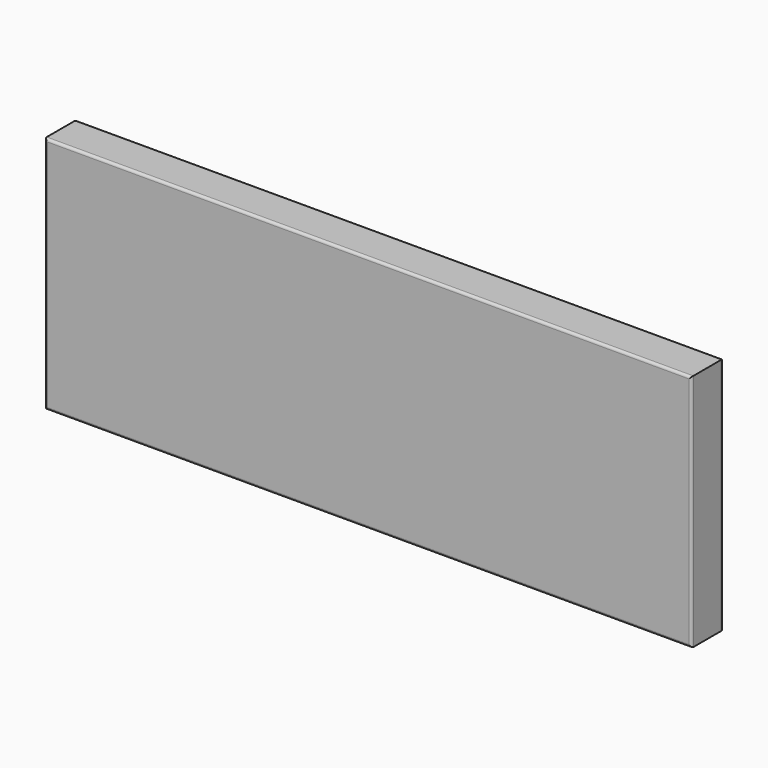
from build123d import *

# Parameters (mm, degrees)
F0_W     = 1300
F0_H     = 480
F1_DEPTH = 40
F2_R     = 5


with BuildPart() as f1:
    # F0 (on Front) → F1 (new body, symmetric)
    with BuildSketch(Plane.XZ):
        Rectangle(F0_W, F0_H)
    extrude(amount=F1_DEPTH, both=True)

    # F2
    f2_edges = [f1.edges().sort_by_distance(p)[0] for p in [
        (0, -40, 240),
        (650, -40, 0),
        (0, -40, -240),
        (-650, -40, 0),
        (0, 40, 240),
        (650, 40, 0),
        (0, 40, -240),
        (-650, 40, 0),
    ]]
    fillet(f2_edges, radius=F2_R)


solid = f1.part
